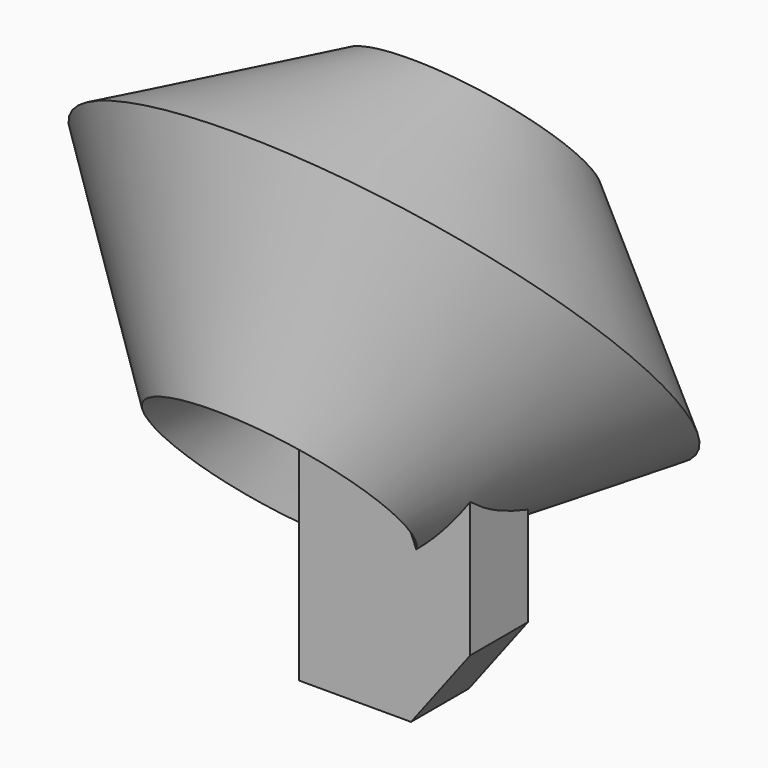
from build123d import *

# Parameters (mm, degrees)
F1_DEPTH = 25.4


with BuildPart() as f1:
    # F0 (on Front) → F1 (new body)
    with BuildSketch(Plane.XZ):
        Polygon((54.5106306672, 36.1877307296), (6.2173682239, 36.1877307296), (-5.6495610625, 19.6164111685), (-5.6495610625, -55.4267726839), (33.7284366412, -55.4267726839), (54.5106306672, -28.1047300409), align=None)
    extrude(amount=F1_DEPTH)

    # F2 (on Right) → F3 (revolve)
    with BuildSketch(Plane.YZ):
        Polygon((70.0851008296, 61.8397891521), (10.0763916288, 61.8397891521), (-12.6733398065, 41.4988532085), (-12.6733398065, -15.7271567732), (70.0851008296, -15.7271567732), align=None)
    revolve(axis=Axis((0, -4.0846643969, 49.1781393066), (0, -0.7454706515, -0.6665384518)))


solid = f1.part
